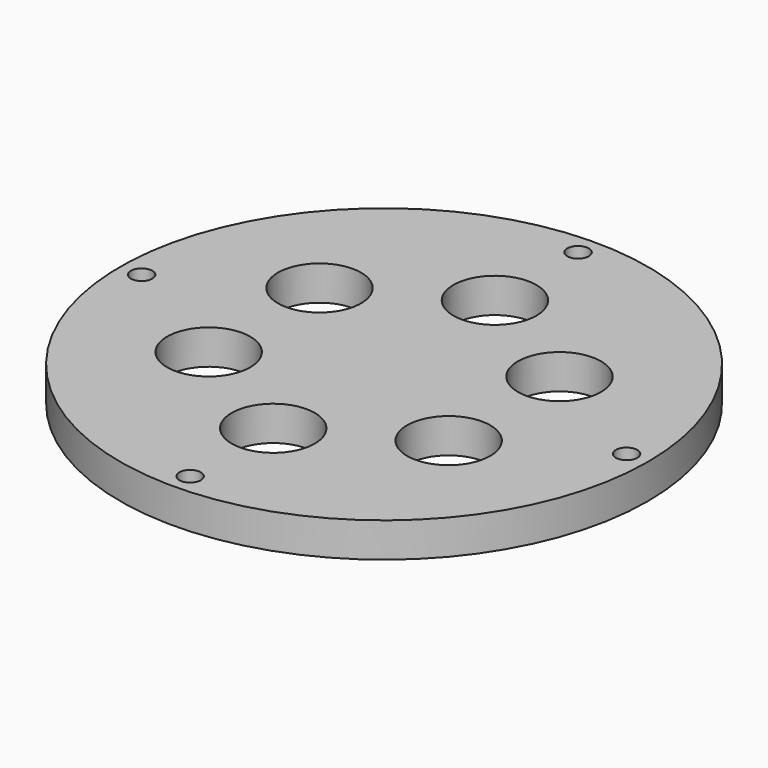
from build123d import *

# Parameters (mm, degrees)
F0_R     = 38.1
F0_R_2   = 7.5
F0_R_3   = 6
F0_R_4   = 1.55
F1_DEPTH = 5
F2_DEPTH = 25
F3_COUNT = 6
F4_DEPTH = 25
F5_COUNT = 4
F6_DEPTH = 5


with BuildPart() as f1:
    # F0 (on Top) → F1 (new body)
    with BuildSketch(Plane.XY):
        Circle(F0_R)
        Circle(F0_R_2, mode=Mode.SUBTRACT)
        with Locations((0, 20)):
            Circle(F0_R_3, mode=Mode.SUBTRACT)
        with Locations((0, 35)):
            Circle(F0_R_4, mode=Mode.SUBTRACT)
        with Locations((0, 20)):
            Circle(F0_R_3)
        with Locations((0, 35)):
            Circle(F0_R_4)
    extrude(amount=F1_DEPTH)

    # F3: F2 ×6 about axis
    f3_axis = Axis((0, 0, 5), (0, 0, 1))


with BuildPart() as f2:
    # F0 (on Top) → F2 (new body)
    with BuildSketch(Plane.XY):
        with Locations((0, 20)):
            Circle(F0_R_3)
    extrude(amount=F2_DEPTH)


with BuildPart() as f1_1:
    add(f1.part)
    for i in range(1, F3_COUNT):
        add(f2.part.rotate(f3_axis, i * 360 / F3_COUNT), mode=Mode.SUBTRACT)

    # F3#seed: cut F2
    add(f2.part, mode=Mode.SUBTRACT)

    # F5: F4 ×4 about axis
    f5_axis = Axis((0, 0, 5), (0, 0, 1))


with BuildPart() as f4:
    # F0 (on Top) → F4 (new body)
    with BuildSketch(Plane.XY):
        with Locations((0, 35)):
            Circle(F0_R_4)
    extrude(amount=F4_DEPTH)


with BuildPart() as f1_2:
    add(f1_1.part)
    for i in range(1, F5_COUNT):
        add(f4.part.rotate(f5_axis, i * 360 / F5_COUNT), mode=Mode.SUBTRACT)

    # F5#seed: cut F4
    add(f4.part, mode=Mode.SUBTRACT)

    # F0 (on Top) → F6 (join)
    with BuildSketch(Plane.XY):
        Circle(F0_R_2)
    extrude(amount=F6_DEPTH)


solid = f1_2.part
